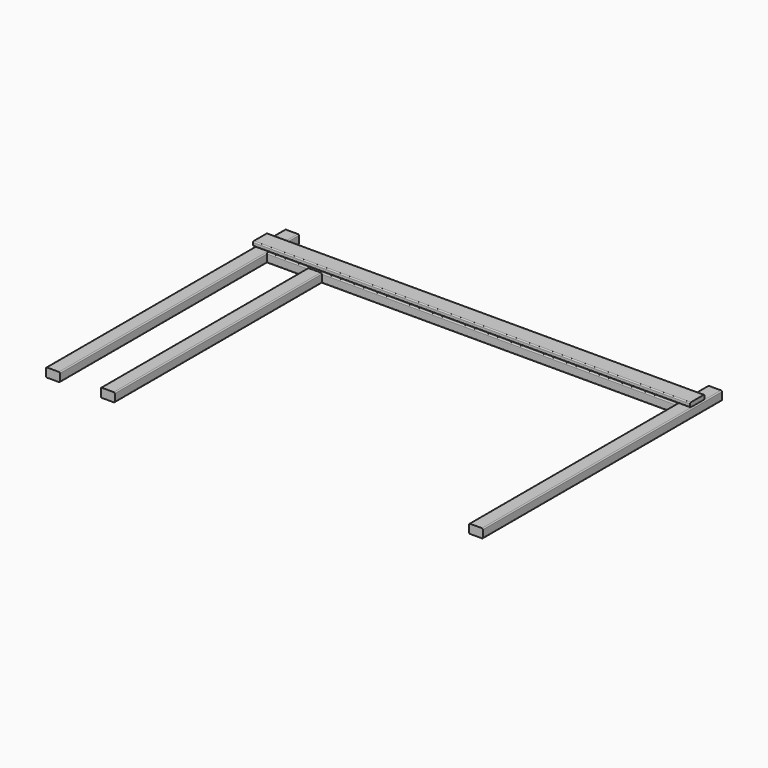
from build123d import *

# Parameters (mm, degrees)
F1_DEPTH = 1500
F3_DEPTH = 2055
F5_DEPTH = 1300
F7_DEPTH = 2195


with BuildPart() as f1:
    # F0 (on Front) → F1 (new body)
    with BuildSketch(Plane.XZ):
        with BuildLine():
            Line((-65, 0), (-5, 0))
            ThreePointArc((-5, 0), (-1.464466, 1.464466), (0, 5))
            Line((0, 5), (0, 40))
            ThreePointArc((0, 40), (-1.464466, 43.535534), (-5, 45))
            Line((-5, 45), (-65, 45))
            ThreePointArc((-65, 45), (-68.535534, 43.535534), (-70, 40))
            Line((-70, 40), (-70, 5))
            ThreePointArc((-70, 5), (-68.535534, 1.464466), (-65, 0))
        make_face()
        with BuildLine():
            ThreePointArc((2055, 5), (2056.464466, 1.464466), (2060, 0))
            Line((2060, 0), (2120, 0))
            ThreePointArc((2120, 0), (2123.535534, 1.464466), (2125, 5))
            Line((2125, 5), (2125, 40))
            ThreePointArc((2125, 40), (2123.535534, 43.535534), (2120, 45))
            Line((2120, 45), (2060, 45))
            ThreePointArc((2060, 45), (2056.464466, 43.535534), (2055, 40))
            Line((2055, 40), (2055, 5))
        make_face()
    extrude(amount=-F1_DEPTH)


with BuildPart() as f3:
    # F2 (on face) → F3 (new body)
    with BuildSketch(Plane.YZ):
        with BuildLine():
            Line((1365, 45), (1305, 45))
            ThreePointArc((1305, 45), (1301.464466, 43.535534), (1300, 40))
            Line((1300, 40), (1300, 5))
            ThreePointArc((1300, 5), (1301.464466, 1.464466), (1305, 0))
            Line((1305, 0), (1365, 0))
            ThreePointArc((1365, 0), (1368.535534, 1.464466), (1370, 5))
            Line((1370, 5), (1370, 40))
            ThreePointArc((1370, 40), (1368.535534, 43.535534), (1365, 45))
        make_face()
    extrude(amount=F3_DEPTH)

    # F4 (on face) → F5 (join)
    with BuildSketch(Plane.XZ.offset(-1300)):
        with BuildLine():
            Line((270, 45), (210, 45))
            ThreePointArc((210, 45), (206.464466, 43.535534), (205, 40))
            Line((205, 40), (205, 5))
            ThreePointArc((205, 5), (206.464466, 1.464466), (210, 0))
            Line((210, 0), (270, 0))
            ThreePointArc((270, 0), (273.535534, 1.464466), (275, 5))
            Line((275, 5), (275, 40))
            ThreePointArc((275, 40), (273.535534, 43.535534), (270, 45))
        make_face()
    extrude(amount=F5_DEPTH)


with BuildPart() as f7:
    # F6 (on face) → F7 (new body, through all)
    with BuildSketch(Plane(origin=(-70, 0, 0), x_dir=(0, -1, 0), z_dir=(-1, 0, 0))):
        with BuildLine():
            ThreePointArc((-1300, 68), (-1301.464466, 71.535534), (-1305, 73))
            Line((-1305, 73), (-1385, 73))
            ThreePointArc((-1385, 73), (-1388.535534, 71.535534), (-1390, 68))
            Line((-1390, 68), (-1390, 56))
            ThreePointArc((-1390, 56), (-1388.535534, 52.464466), (-1385, 51))
            Line((-1385, 51), (-1305, 51))
            ThreePointArc((-1305, 51), (-1301.464466, 52.464466), (-1300, 56))
            Line((-1300, 56), (-1300, 68))
        make_face()
    extrude(amount=-F7_DEPTH)


solid = Compound([f1.part, f3.part, f7.part])
